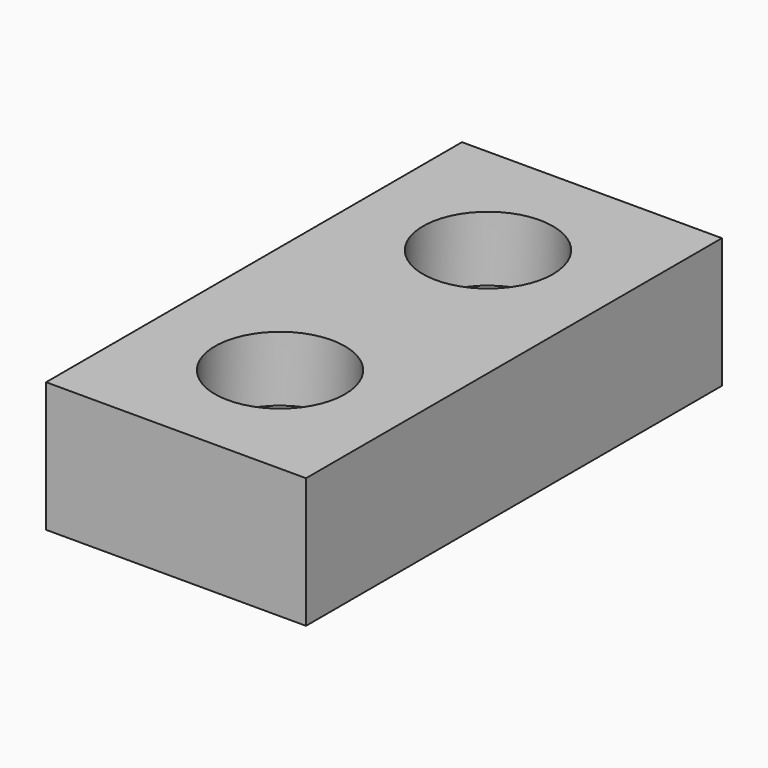
from build123d import *

# Parameters (mm, degrees)
F0_W     = 20
F0_H     = 40
F0_R     = 5
F0_R_2   = 2.1
F1_DEPTH = 5
F2_DEPTH = 10


with BuildPart() as f1:
    # F0 (on Top) → F1 (new body)
    with BuildSketch(Plane.XY):
        Rectangle(F0_W, F0_H)
        with Locations((0, -10)):
            Circle(F0_R, mode=Mode.SUBTRACT)
        with Locations((0, 10)):
            Circle(F0_R, mode=Mode.SUBTRACT)
        with Locations((0, 10)):
            Circle(F0_R)
        with Locations((0, 10)):
            Circle(F0_R_2, mode=Mode.SUBTRACT)
        with Locations((0, -10)):
            Circle(F0_R)
        with Locations((0, -10)):
            Circle(F0_R_2, mode=Mode.SUBTRACT)
    extrude(amount=F1_DEPTH)

    # F0 (on Top) → F2 (join)
    with BuildSketch(Plane.XY):
        Rectangle(F0_W, F0_H)
        with Locations((0, -10)):
            Circle(F0_R, mode=Mode.SUBTRACT)
        with Locations((0, 10)):
            Circle(F0_R, mode=Mode.SUBTRACT)
    extrude(amount=F2_DEPTH)


solid = f1.part
